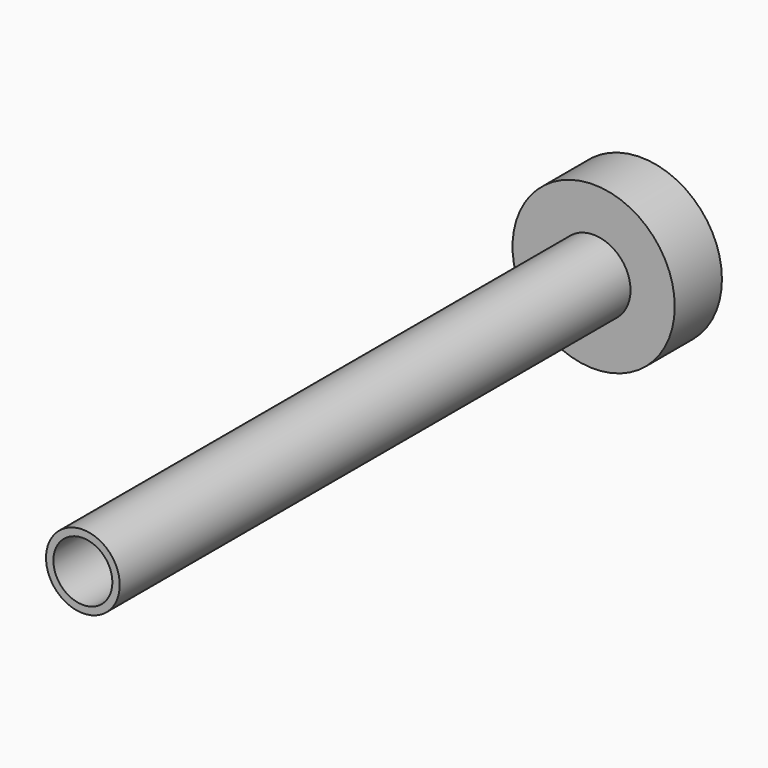
from build123d import *

# Parameters (mm, degrees)
F0_R     = 2.5
F0_R_2   = 2
F1_DEPTH = 47.3
F2_R     = 5.5
F2_R_2   = 2.5
F3_DEPTH = 4
F5_D     = 2.7
F5_DEPTH = 5.501


with BuildPart() as f1:
    # F0 (on Front) → F1 (new body)
    with BuildSketch(Plane.XZ):
        Circle(F0_R)
        Circle(F0_R_2, mode=Mode.SUBTRACT)
    extrude(amount=F1_DEPTH)


with BuildPart() as f3:
    # F2 (on Front) → F3 (new body)
    with BuildSketch(Plane.XZ):
        Circle(F2_R)
        Circle(F2_R_2, mode=Mode.SUBTRACT)
    extrude(amount=F3_DEPTH)

    # F5 (through all, one way)
    with BuildSketch(Plane.YZ):
        with Locations((-2, 0)):
            Circle(F5_D / 2)
    extrude(amount=-F5_DEPTH, mode=Mode.SUBTRACT)


solid = Compound([f1.part, f3.part])
